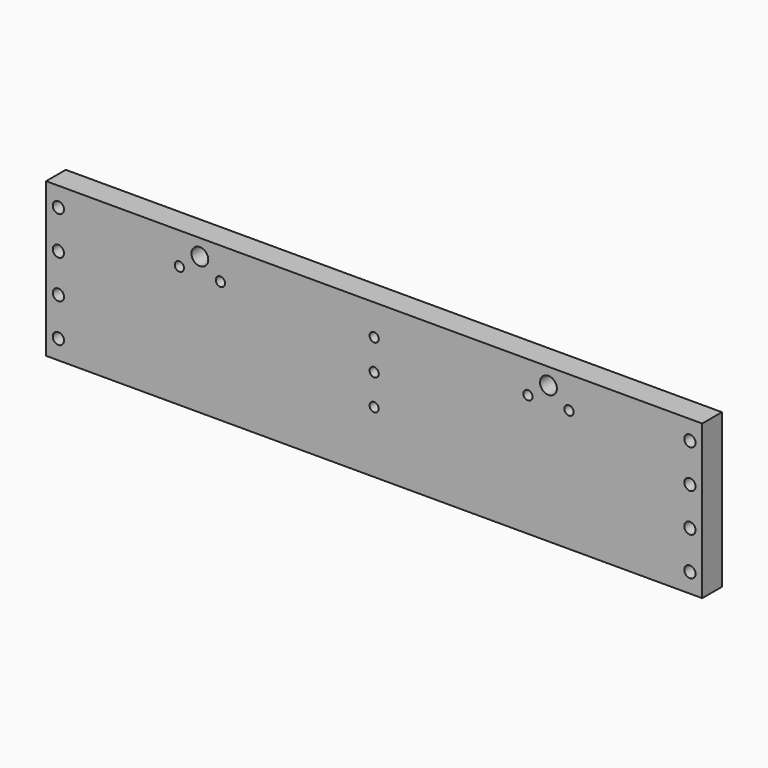
from build123d import *

# Parameters (mm, degrees)
F0_W     = 320
F0_H     = 75
F0_R     = 2.75
F0_R_2   = 2.25
F0_R_3   = 4.1
F1_DEPTH = 12


with BuildPart() as f1:
    # F0 (on Front) → F1 (new body)
    with BuildSketch(Plane.XZ):
        Rectangle(F0_W, F0_H)
        with Locations((-154, -28.125)):
            Circle(F0_R, mode=Mode.SUBTRACT)
        with Locations((-154, -9.375)):
            Circle(F0_R, mode=Mode.SUBTRACT)
        with Locations((154, -28.125)):
            Circle(F0_R, mode=Mode.SUBTRACT)
        with Locations((0, -7.5)):
            Circle(F0_R_2, mode=Mode.SUBTRACT)
        with Locations((154, -9.375)):
            Circle(F0_R, mode=Mode.SUBTRACT)
        with Locations((-154, 9.375)):
            Circle(F0_R, mode=Mode.SUBTRACT)
        with Locations((-95, 22)):
            Circle(F0_R_2, mode=Mode.SUBTRACT)
        with Locations((-154, 28.125)):
            Circle(F0_R, mode=Mode.SUBTRACT)
        with Locations((-85, 29.5)):
            Circle(F0_R_3, mode=Mode.SUBTRACT)
        with Locations((-75, 22)):
            Circle(F0_R_2, mode=Mode.SUBTRACT)
        with Locations((0, 7.5)):
            Circle(F0_R_2, mode=Mode.SUBTRACT)
        with Locations((154, 9.375)):
            Circle(F0_R, mode=Mode.SUBTRACT)
        with Locations((0, 22.5)):
            Circle(F0_R_2, mode=Mode.SUBTRACT)
        with Locations((75, 22)):
            Circle(F0_R_2, mode=Mode.SUBTRACT)
        with Locations((95, 22)):
            Circle(F0_R_2, mode=Mode.SUBTRACT)
        with Locations((85, 29.5)):
            Circle(F0_R_3, mode=Mode.SUBTRACT)
        with Locations((154, 28.125)):
            Circle(F0_R, mode=Mode.SUBTRACT)
    extrude(amount=-F1_DEPTH)


solid = f1.part
